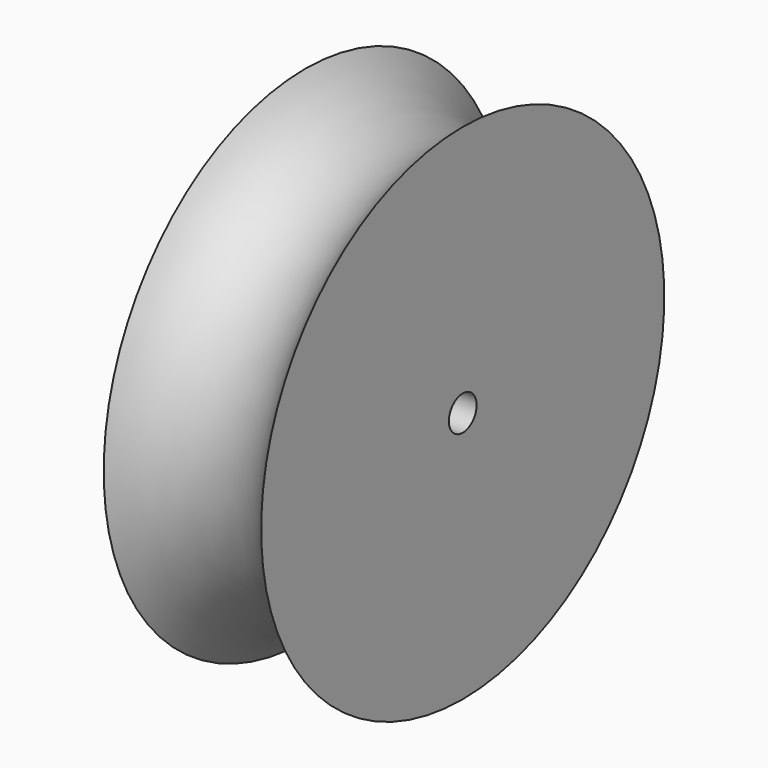
from build123d import *


with BuildPart() as f1:
    # F0 (on Front) → F1 (revolve)
    with BuildSketch(Plane.XZ):
        with BuildLine():
            ThreePointArc((-9.292062, 18.058924), (-4.292062, 20.742299), (0.707938, 18.058924))
            Line((0.707938, 18.058924), (0.707938, 32.958924))
            Line((0.707938, 32.958924), (-5.292062, 32.958924))
            Line((-5.292062, 32.958924), (-5.292062, 34.058924))
            Line((-5.292062, 34.058924), (-9.292062, 34.058924))
            Line((-9.292062, 34.058924), (-9.292062, 32.958924))
            Line((-9.292062, 32.958924), (-9.292062, 18.058924))
        make_face()
    revolve(axis=Axis((-7.292062, 0, 34.058924), (-1, 0, 0)))


solid = f1.part
